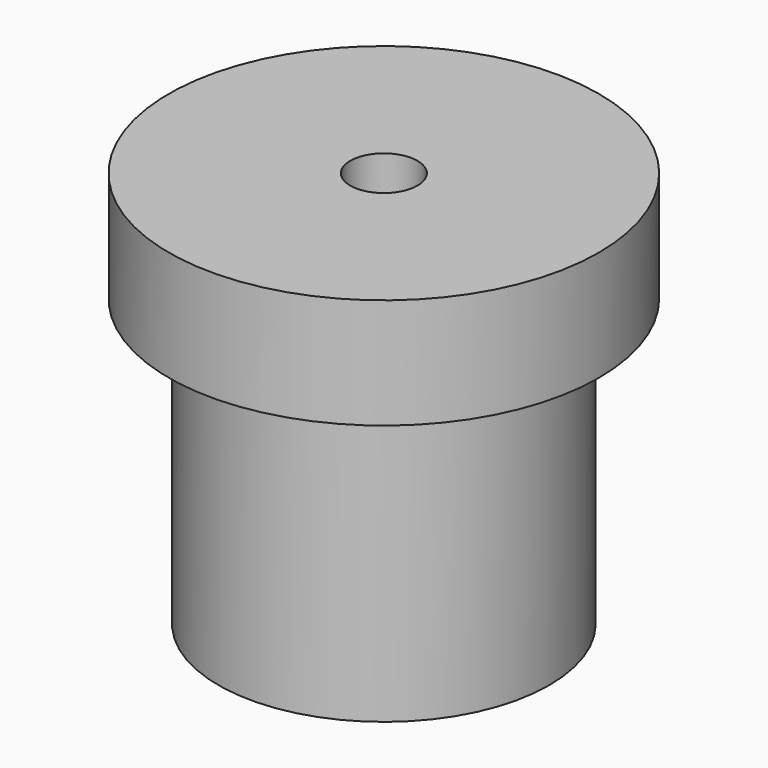
from build123d import *

# Parameters (mm, degrees)
F0_R     = 7.5
F0_R_2   = 6.1
F1_DEPTH = 14
F0_R_3   = 1.524
F2_DEPTH = 2
F3_R     = 9.75
F3_R_2   = 7.75
F3_R_3   = 7.5
F3_R_4   = 6.1
F3_R_5   = 1.524
F4_DEPTH = 2
F5_DEPTH = 3


with BuildPart() as f1:
    # F0 (on Top) → F1 (new body)
    with BuildSketch(Plane.XY):
        Circle(F0_R)
        Circle(F0_R_2, mode=Mode.SUBTRACT)
    extrude(amount=F1_DEPTH)

    # F0 (on Top) → F2 (join)
    with BuildSketch(Plane.XY):
        Circle(F0_R)
        Circle(F0_R_2, mode=Mode.SUBTRACT)
        Circle(F0_R_2)
        Circle(F0_R_3, mode=Mode.SUBTRACT)
    extrude(amount=-F2_DEPTH)


with BuildPart() as f4:
    # F3 (on face) → F4 (new body)
    with BuildSketch(Plane.XY.offset(14)):
        Circle(F3_R)
        Circle(F3_R_2, mode=Mode.SUBTRACT)
        Circle(F3_R_2)
        Circle(F3_R_3, mode=Mode.SUBTRACT)
        Circle(F3_R_3)
        Circle(F3_R_4, mode=Mode.SUBTRACT)
        Circle(F3_R_4)
        Circle(F3_R_5, mode=Mode.SUBTRACT)
    extrude(amount=F4_DEPTH)

    # F3 (on face) → F5 (join)
    with BuildSketch(Plane.XY.offset(14)):
        Circle(F3_R)
        Circle(F3_R_2, mode=Mode.SUBTRACT)
    extrude(amount=-F5_DEPTH)


solid = Compound([f1.part, f4.part])
